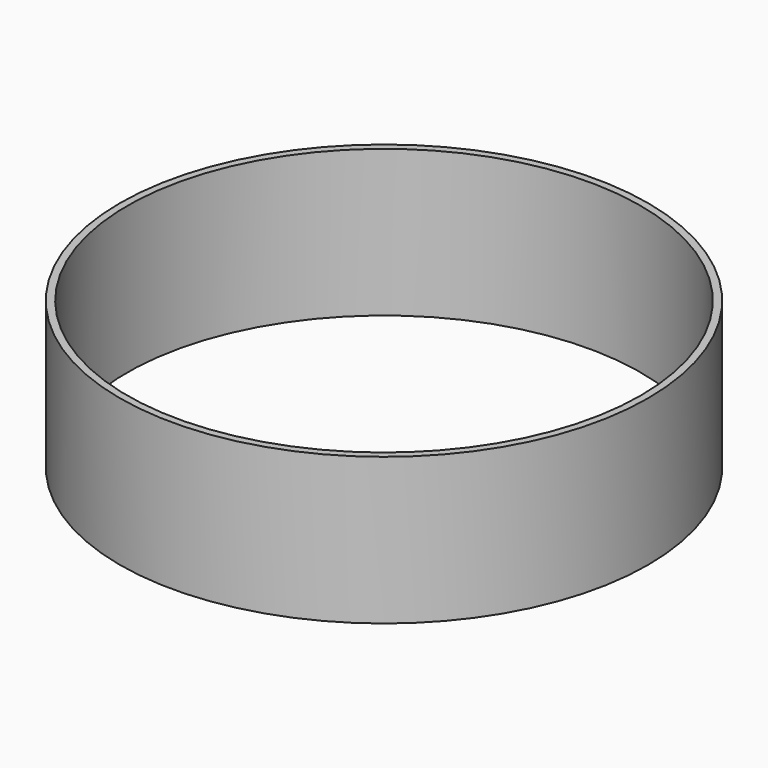
from build123d import *

# Parameters (mm, degrees)
SKETCH_R   = 18
SKETCH_R_2 = 17.5
PAD_DEPTH  = 10


with BuildPart() as part:
    # Sketch → Pad (new body)
    with BuildSketch(Plane.XY):
        with Locations((-3.549421, 0.594369)):
            Circle(SKETCH_R)
        with Locations((-3.549421, 0.594369)):
            Circle(SKETCH_R_2, mode=Mode.SUBTRACT)
    extrude(amount=PAD_DEPTH)


solid = part.part
